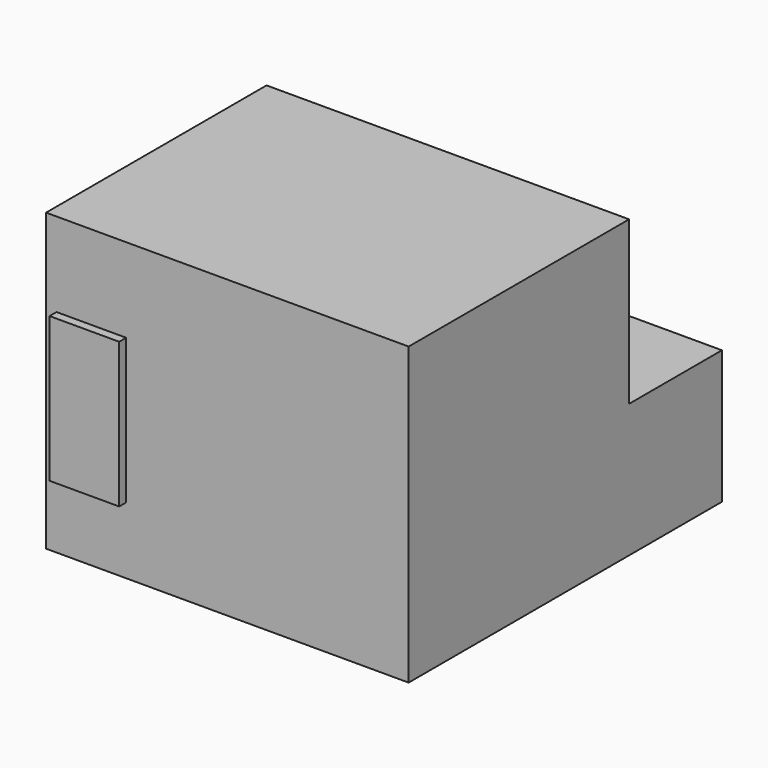
from build123d import *

# Parameters (mm, degrees)
F0_W     = 125
F0_H     = 95
F0_H_2   = 40
F1_DEPTH = 102
F2_START = 46
F2_DEPTH = 86.07192
F3_W     = 24
F3_H     = 50
F4_DEPTH = 3


with BuildPart() as f1:
    # F0 (on Top) → F1 (new body)
    with BuildSketch(Plane.XY):
        with Locations((62.5, 47.5)):
            Rectangle(F0_W, F0_H)
        with Locations((62.5, 115)):
            Rectangle(F0_W, F0_H_2)
        with Locations((62.5, 47.5)):
            Rectangle(F0_W, F0_H)
    extrude(amount=F1_DEPTH)

    # F0 (on Top) → F2 (cut)
    with BuildSketch(Plane.XY.offset(F2_START)):
        with Locations((62.5, 115)):
            Rectangle(F0_W, F0_H_2)
    extrude(amount=F2_DEPTH, mode=Mode.SUBTRACT)

    # F3 (on face) → F4 (join)
    with BuildSketch(Plane.XZ):
        with Locations((15.6, 48)):
            Rectangle(F3_W, F3_H)
    extrude(amount=F4_DEPTH)


solid = f1.part
